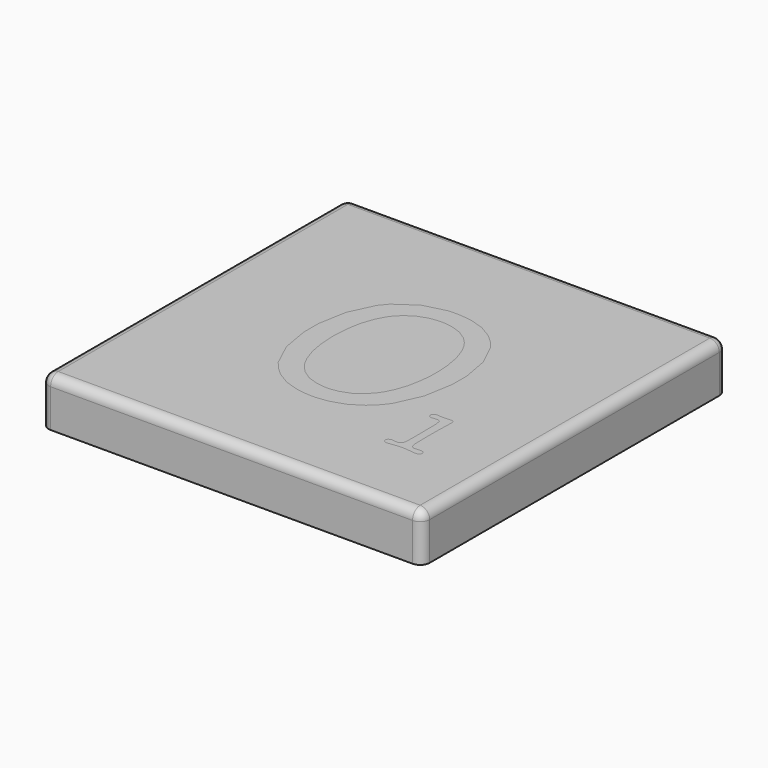
from build123d import *

# Parameters (mm, degrees)
F0_W     = 40
F0_H     = 40
F1_DEPTH = 5
F2_R     = 1
F5_DEPTH = 3


with BuildPart() as f1:
    # F0 (on Top) → F1 (new body)
    with BuildSketch(Plane.XY):
        Rectangle(F0_W, F0_H)
    extrude(amount=-F1_DEPTH)

    # F2
    f2_edges = [f1.edges().sort_by_distance(p)[0] for p in [
        (0, -20, 0),
        (20, 0, 0),
        (0, 20, 0),
        (-20, 0, 0),
        (-20, 20, -2.5),
        (20, 20, -2.5),
        (-20, -20, -2.5),
        (20, -20, -2.5),
    ]]
    fillet(f2_edges, radius=F2_R)


with BuildPart() as f5:
    # F3 (on Top) + F4 (on Top) → F5 (new body)
    with BuildSketch(Plane.XY):
        Polygon((-0.45753, -9.405798), (-0.03998, -9.405798), (0.378943, -9.405798), (1.639849, -9.240444), (3.137789, -8.744331), (4.451071, -7.91751), (5.333009, -7.075526), (5.582412, -6.759956), (5.928309, -6.318987), (7.13961, -3.651098), (7.659116, -0.624942), (7.659116, 0.383794), (7.659116, 1.315339), (7.146493, 4.107256), (5.950356, 6.565671), (5.608599, 6.970801), (5.360568, 7.264349), (4.493793, 8.037424), (3.203931, 8.798077), (1.736344, 9.254211), (0.502996, 9.405798), (0.092329, 9.405798), (-0.716559, 9.405798), (-3.141904, 8.781567), (-5.253076, 7.32221), (-5.59623, 6.90466), (-5.94073, 6.488506), (-7.14375, 3.93225), (-7.659141, 0.992861), (-7.659141, 0.013106), (-7.659141, -0.958418), (-7.146519, -3.875735), (-5.950382, -6.441643), (-5.608625, -6.866077), (-5.363337, -7.169252), (-4.492396, -7.976768), (-3.191561, -8.770518), (-1.707388, -9.24593), align=None)
        Polygon((-0.286639, 7.49996), (0.013792, 7.49996), (0.315544, 7.49996), (1.220927, 7.380097), (2.282038, 7.020433), (3.192907, 6.420968), (3.790975, 5.810504), (3.954958, 5.581726), (4.131335, 5.336438), (4.557166, 4.522013), (4.987112, 3.258363), (5.244821, 1.790751), (5.331638, 0.53815), (5.331638, 0.119228), (5.331638, -0.296951), (5.24068, -1.548232), (4.970577, -3.032354), (4.519955, -4.333215), (4.072103, -5.188991), (3.888816, -5.450815), (3.71795, -5.691988), (3.103347, -6.347943), (2.192452, -6.988708), (1.152017, -7.373188), (0.276987, -7.501357), (-0.013792, -7.501357), (-0.311429, -7.501357), (-1.201649, -7.377328), (-2.250338, -7.008012), (-3.159836, -6.392037), (-3.763442, -5.763641), (-3.928796, -5.530774), (-4.109314, -5.27718), (-4.5434, -4.442104), (-4.9816, -3.152267), (-5.244821, -1.657096), (-5.331638, -0.383769), (-5.331638, 0.039268), (-5.331638, 0.458191), (-5.244821, 1.713586), (-4.9816, 3.188106), (-4.5434, 4.465549), (-4.109314, 5.293716), (-3.928796, 5.543169), (-3.76207, 5.776036), (-3.157093, 6.400317), (-2.243455, 7.012153), (-1.18651, 7.3787), align=None, mode=Mode.SUBTRACT)
    with BuildSketch(Plane.XY):
        Polygon((11.022813, -7.043704), (11.051744, -9.805293), (11.051744, -10.027137), (11.032465, -10.692744), (10.988345, -11.118549), (10.97595, -11.162644), (10.962183, -11.205367), (10.668661, -11.424467), (10.56668, -11.424467), (10.503281, -11.424467), (10.317252, -11.409303), (10.280041, -11.40656), (10.253853, -11.401048), (10.058172, -11.377629), (9.985147, -11.377629), (9.896958, -11.377629), (9.633738, -11.460306), (9.51799, -11.647708), (9.51799, -11.711106), (9.51799, -11.774504), (9.619971, -11.967417), (9.850095, -12.054235), (9.92726, -12.054235), (10.033381, -12.054235), (10.355834, -12.012909), (10.413721, -12.006), (10.514305, -11.990836), (11.184052, -11.92058), (11.441735, -11.92058), (11.71321, -11.92058), (12.527636, -12.007397), (12.661291, -12.025304), (12.68471, -12.028047), (12.888672, -12.044583), (12.965837, -12.044583), (13.044399, -12.044583), (13.280035, -11.960534), (13.386131, -11.773107), (13.386131, -11.711106), (13.386131, -11.647708), (13.270383, -11.460306), (13.014071, -11.377629), (12.928626, -11.377629), (12.648896, -11.396908), (12.614453, -11.401048), (12.578614, -11.405188), (12.378792, -11.424467), (12.300255, -11.424467), (12.21895, -11.424467), (11.975034, -11.259113), (11.863401, -10.876005), (11.862029, -10.76714), (11.862029, -10.593506), (11.845494, -10.076743), (11.84275, -9.977531), (11.839982, -9.894854), (11.833098, -9.186549), (11.833098, -8.110275), (11.833098, -7.689981), (11.871681, -6.431843), (11.879936, -6.262323), (11.881333, -6.227906), (11.889588, -6.090111), (11.889588, -6.033596), (11.889588, -5.963315), (11.857889, -5.752469), (11.852377, -5.738702), (11.844122, -5.718027), (11.658092, -5.614674), (11.594694, -5.614674), (11.516157, -5.614674), (11.280496, -5.638093), (11.232261, -5.643579), (11.199191, -5.646373), (10.853319, -5.662883), (10.727919, -5.662883), (10.643845, -5.662883), (10.391674, -5.642208), (10.351694, -5.638093), (10.310368, -5.633953), (10.082988, -5.614674), (9.994799, -5.614674), (9.90661, -5.614674), (9.642018, -5.864077), (9.642018, -5.948151), (9.642018, -6.010152), (9.734347, -6.197604), (9.943796, -6.281627), (10.014077, -6.281627), (10.074707, -6.281627), (10.259365, -6.260952), (10.289693, -6.258209), (10.32002, -6.254068), (10.496398, -6.233393), (10.56668, -6.233393), (10.652125, -6.233393), (10.908437, -6.368445), (10.923601, -6.396029), (10.938739, -6.422216), (11.021441, -6.962373), align=None)
    extrude(amount=-F5_DEPTH)


solid = Compound([f1.part, f5.part])
